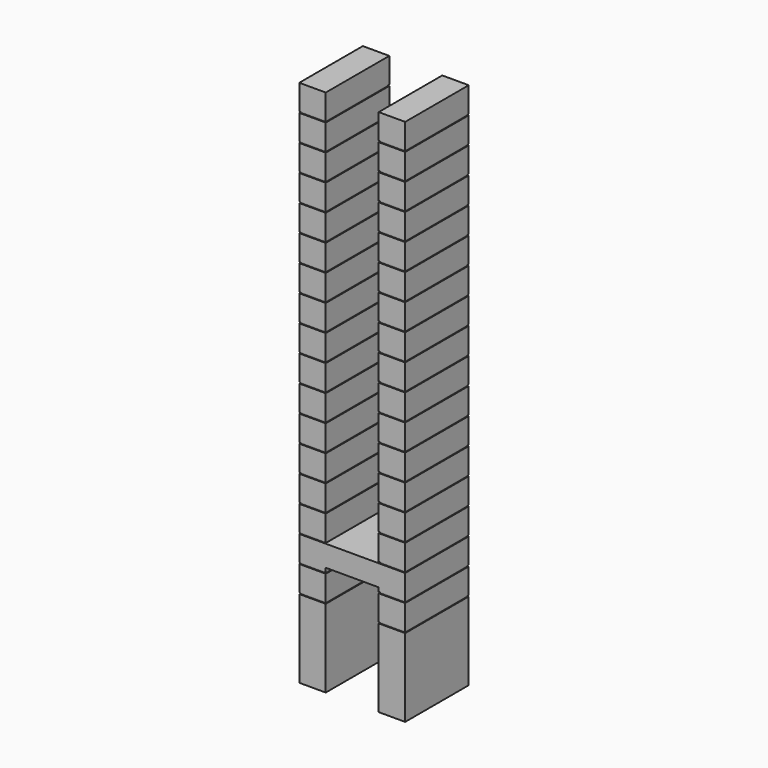
from build123d import *

# Parameters (mm, degrees)
CUBE182_W     = 9.5
CUBE182_H     = 29.5
CUBE182_DEPTH = 1
CUBE183_W     = 9.5
CUBE183_H     = 29.5
CUBE183_DEPTH = 1
CUBE184_W     = 9.5
CUBE184_H     = 29.5
CUBE184_DEPTH = 1
CUBE185_W     = 9.5
CUBE185_H     = 29.5
CUBE185_DEPTH = 1
CUBE186_W     = 9.5
CUBE186_H     = 29.5
CUBE186_DEPTH = 1
CUBE187_W     = 9.5
CUBE187_H     = 29.5
CUBE187_DEPTH = 1
CUBE188_W     = 9.5
CUBE188_H     = 29.5
CUBE188_DEPTH = 1
CUBE189_W     = 9.5
CUBE189_H     = 29.5
CUBE189_DEPTH = 1
CUBE190_W     = 9.5
CUBE190_H     = 29.5
CUBE190_DEPTH = 1
CUBE191_W     = 9.5
CUBE191_H     = 29.5
CUBE191_DEPTH = 1
CUBE192_W     = 9.5
CUBE192_H     = 29.5
CUBE192_DEPTH = 1
CUBE193_W     = 9.5
CUBE193_H     = 29.5
CUBE193_DEPTH = 1
CUBE194_W     = 9.5
CUBE194_H     = 29.5
CUBE194_DEPTH = 1
CUBE195_W     = 9.5
CUBE195_H     = 29.5
CUBE195_DEPTH = 1
CUBE196_W     = 9.5
CUBE196_H     = 29.5
CUBE196_DEPTH = 1
CUBE197_W     = 9.5
CUBE197_H     = 29.5
CUBE197_DEPTH = 1
CUBE198_W     = 9.5
CUBE198_H     = 29.5
CUBE198_DEPTH = 1
CUBE199_W     = 9.5
CUBE199_H     = 29.5
CUBE199_DEPTH = 1
CUBE200_W     = 9.5
CUBE200_H     = 29.5
CUBE200_DEPTH = 1
CUBE201_W     = 9.5
CUBE201_H     = 29.5
CUBE201_DEPTH = 1
CUBE202_W     = 9.5
CUBE202_H     = 29.5
CUBE202_DEPTH = 1
CUBE203_W     = 9.5
CUBE203_H     = 29.5
CUBE203_DEPTH = 1
CUBE204_W     = 9.5
CUBE204_H     = 29.5
CUBE204_DEPTH = 1
CUBE205_W     = 9.5
CUBE205_H     = 29.5
CUBE205_DEPTH = 1
CUBE206_W     = 9.5
CUBE206_H     = 29.5
CUBE206_DEPTH = 1
CUBE207_W     = 9.5
CUBE207_H     = 29.5
CUBE207_DEPTH = 1
CUBE208_W     = 9.5
CUBE208_H     = 29.5
CUBE208_DEPTH = 1
CUBE209_W     = 9.5
CUBE209_H     = 29.5
CUBE209_DEPTH = 1
CUBE210_W     = 9.5
CUBE210_H     = 29.5
CUBE210_DEPTH = 1
CUBE211_W     = 9.5
CUBE211_H     = 29.5
CUBE211_DEPTH = 1
CUBE212_W     = 9.5
CUBE212_H     = 29.5
CUBE212_DEPTH = 1
CUBE213_W     = 9.5
CUBE213_H     = 29.5
CUBE213_DEPTH = 1
CUBE214_W     = 9.5
CUBE214_H     = 29.5
CUBE214_DEPTH = 1
CUBE181_W     = 9.5
CUBE181_H     = 29.5
CUBE181_DEPTH = 1
CUBE215_W     = 40
CUBE215_H     = 30
CUBE215_DEPTH = 8
CUBE148_W     = 10
CUBE148_H     = 30
CUBE148_DEPTH = 9.5
CUBE147_W     = 10
CUBE147_H     = 30
CUBE147_DEPTH = 9.5
CUBE150_W     = 10
CUBE150_H     = 30
CUBE150_DEPTH = 9.5
CUBE149_W     = 10
CUBE149_H     = 30
CUBE149_DEPTH = 9.5
CUBE152_W     = 10
CUBE152_H     = 30
CUBE152_DEPTH = 9.5
CUBE151_W     = 10
CUBE151_H     = 30
CUBE151_DEPTH = 9.5
CUBE154_W     = 10
CUBE154_H     = 30
CUBE154_DEPTH = 9.5
CUBE153_W     = 10
CUBE153_H     = 30
CUBE153_DEPTH = 9.5
CUBE156_W     = 10
CUBE156_H     = 30
CUBE156_DEPTH = 9.5
CUBE155_W     = 10
CUBE155_H     = 30
CUBE155_DEPTH = 9.5
CUBE158_W     = 10
CUBE158_H     = 30
CUBE158_DEPTH = 9.5
CUBE157_W     = 10
CUBE157_H     = 30
CUBE157_DEPTH = 9.5
CUBE160_W     = 10
CUBE160_H     = 30
CUBE160_DEPTH = 9.5
CUBE159_W     = 10
CUBE159_H     = 30
CUBE159_DEPTH = 9.5
CUBE162_W     = 10
CUBE162_H     = 30
CUBE162_DEPTH = 9.5
CUBE161_W     = 10
CUBE161_H     = 30
CUBE161_DEPTH = 9.5
CUBE164_W     = 10
CUBE164_H     = 30
CUBE164_DEPTH = 9.5
CUBE163_W     = 10
CUBE163_H     = 30
CUBE163_DEPTH = 9.5
CUBE166_W     = 10
CUBE166_H     = 30
CUBE166_DEPTH = 9.5
CUBE165_W     = 10
CUBE165_H     = 30
CUBE165_DEPTH = 9.5
CUBE168_W     = 10
CUBE168_H     = 30
CUBE168_DEPTH = 9.5
CUBE167_W     = 10
CUBE167_H     = 30
CUBE167_DEPTH = 9.5
CUBE170_W     = 10
CUBE170_H     = 30
CUBE170_DEPTH = 9.5
CUBE169_W     = 10
CUBE169_H     = 30
CUBE169_DEPTH = 9.5
CUBE172_W     = 10
CUBE172_H     = 30
CUBE172_DEPTH = 9.5
CUBE171_W     = 10
CUBE171_H     = 30
CUBE171_DEPTH = 9.5
CUBE174_W     = 10
CUBE174_H     = 30
CUBE174_DEPTH = 9.5
CUBE173_W     = 10
CUBE173_H     = 30
CUBE173_DEPTH = 9.5
CUBE176_W     = 10
CUBE176_H     = 30
CUBE176_DEPTH = 9.5
CUBE175_W     = 10
CUBE175_H     = 30
CUBE175_DEPTH = 9.5
CUBE178_W     = 10
CUBE178_H     = 30
CUBE178_DEPTH = 9.5
CUBE177_W     = 10
CUBE177_H     = 30
CUBE177_DEPTH = 9.5
CUBE180_W     = 10
CUBE180_H     = 30
CUBE180_DEPTH = 9.5
CUBE179_W     = 10
CUBE179_H     = 30
CUBE179_DEPTH = 9.5
CUBE146_W     = 10
CUBE146_H     = 30
CUBE146_DEPTH = 9.5
CUBE145_W     = 10
CUBE145_H     = 30
CUBE145_DEPTH = 9.5
CUBE144_W     = 10
CUBE144_H     = 30
CUBE144_DEPTH = 20
CUBE143_W     = 10
CUBE143_H     = 30
CUBE143_DEPTH = 20


with BuildPart() as cube182:
    # cube182 → cube182 (new body)
    with BuildSketch(Plane(origin=(30.25, 0.25, 9.25), x_dir=(1, 0, 0), z_dir=(0, 0, 1))):
        with Locations((4.75, 14.75)):
            Rectangle(CUBE182_W, CUBE182_H)
    extrude(amount=CUBE182_DEPTH)


with BuildPart() as cube183:
    # cube183 → cube183 (new body)
    with BuildSketch(Plane(origin=(0.25, 0.25, 19.25), x_dir=(1, 0, 0), z_dir=(0, 0, 1))):
        with Locations((4.75, 14.75)):
            Rectangle(CUBE183_W, CUBE183_H)
    extrude(amount=CUBE183_DEPTH)


with BuildPart() as cube184:
    # cube184 → cube184 (new body)
    with BuildSketch(Plane(origin=(30.25, 0.25, 19.25), x_dir=(1, 0, 0), z_dir=(0, 0, 1))):
        with Locations((4.75, 14.75)):
            Rectangle(CUBE184_W, CUBE184_H)
    extrude(amount=CUBE184_DEPTH)


with BuildPart() as cube185:
    # cube185 → cube185 (new body)
    with BuildSketch(Plane(origin=(0.25, 0.25, 29.25), x_dir=(1, 0, 0), z_dir=(0, 0, 1))):
        with Locations((4.75, 14.75)):
            Rectangle(CUBE185_W, CUBE185_H)
    extrude(amount=CUBE185_DEPTH)


with BuildPart() as cube186:
    # cube186 → cube186 (new body)
    with BuildSketch(Plane(origin=(30.25, 0.25, 29.25), x_dir=(1, 0, 0), z_dir=(0, 0, 1))):
        with Locations((4.75, 14.75)):
            Rectangle(CUBE186_W, CUBE186_H)
    extrude(amount=CUBE186_DEPTH)


with BuildPart() as cube187:
    # cube187 → cube187 (new body)
    with BuildSketch(Plane(origin=(0.25, 0.25, 39.25), x_dir=(1, 0, 0), z_dir=(0, 0, 1))):
        with Locations((4.75, 14.75)):
            Rectangle(CUBE187_W, CUBE187_H)
    extrude(amount=CUBE187_DEPTH)


with BuildPart() as cube188:
    # cube188 → cube188 (new body)
    with BuildSketch(Plane(origin=(30.25, 0.25, 39.25), x_dir=(1, 0, 0), z_dir=(0, 0, 1))):
        with Locations((4.75, 14.75)):
            Rectangle(CUBE188_W, CUBE188_H)
    extrude(amount=CUBE188_DEPTH)


with BuildPart() as cube189:
    # cube189 → cube189 (new body)
    with BuildSketch(Plane(origin=(0.25, 0.25, 49.25), x_dir=(1, 0, 0), z_dir=(0, 0, 1))):
        with Locations((4.75, 14.75)):
            Rectangle(CUBE189_W, CUBE189_H)
    extrude(amount=CUBE189_DEPTH)


with BuildPart() as cube190:
    # cube190 → cube190 (new body)
    with BuildSketch(Plane(origin=(30.25, 0.25, 49.25), x_dir=(1, 0, 0), z_dir=(0, 0, 1))):
        with Locations((4.75, 14.75)):
            Rectangle(CUBE190_W, CUBE190_H)
    extrude(amount=CUBE190_DEPTH)


with BuildPart() as cube191:
    # cube191 → cube191 (new body)
    with BuildSketch(Plane(origin=(0.25, 0.25, 59.25), x_dir=(1, 0, 0), z_dir=(0, 0, 1))):
        with Locations((4.75, 14.75)):
            Rectangle(CUBE191_W, CUBE191_H)
    extrude(amount=CUBE191_DEPTH)


with BuildPart() as cube192:
    # cube192 → cube192 (new body)
    with BuildSketch(Plane(origin=(30.25, 0.25, 59.25), x_dir=(1, 0, 0), z_dir=(0, 0, 1))):
        with Locations((4.75, 14.75)):
            Rectangle(CUBE192_W, CUBE192_H)
    extrude(amount=CUBE192_DEPTH)


with BuildPart() as cube193:
    # cube193 → cube193 (new body)
    with BuildSketch(Plane(origin=(0.25, 0.25, 69.25), x_dir=(1, 0, 0), z_dir=(0, 0, 1))):
        with Locations((4.75, 14.75)):
            Rectangle(CUBE193_W, CUBE193_H)
    extrude(amount=CUBE193_DEPTH)


with BuildPart() as cube194:
    # cube194 → cube194 (new body)
    with BuildSketch(Plane(origin=(30.25, 0.25, 69.25), x_dir=(1, 0, 0), z_dir=(0, 0, 1))):
        with Locations((4.75, 14.75)):
            Rectangle(CUBE194_W, CUBE194_H)
    extrude(amount=CUBE194_DEPTH)


with BuildPart() as cube195:
    # cube195 → cube195 (new body)
    with BuildSketch(Plane(origin=(0.25, 0.25, 79.25), x_dir=(1, 0, 0), z_dir=(0, 0, 1))):
        with Locations((4.75, 14.75)):
            Rectangle(CUBE195_W, CUBE195_H)
    extrude(amount=CUBE195_DEPTH)


with BuildPart() as cube196:
    # cube196 → cube196 (new body)
    with BuildSketch(Plane(origin=(30.25, 0.25, 79.25), x_dir=(1, 0, 0), z_dir=(0, 0, 1))):
        with Locations((4.75, 14.75)):
            Rectangle(CUBE196_W, CUBE196_H)
    extrude(amount=CUBE196_DEPTH)


with BuildPart() as cube197:
    # cube197 → cube197 (new body)
    with BuildSketch(Plane(origin=(0.25, 0.25, 89.25), x_dir=(1, 0, 0), z_dir=(0, 0, 1))):
        with Locations((4.75, 14.75)):
            Rectangle(CUBE197_W, CUBE197_H)
    extrude(amount=CUBE197_DEPTH)


with BuildPart() as cube198:
    # cube198 → cube198 (new body)
    with BuildSketch(Plane(origin=(30.25, 0.25, 89.25), x_dir=(1, 0, 0), z_dir=(0, 0, 1))):
        with Locations((4.75, 14.75)):
            Rectangle(CUBE198_W, CUBE198_H)
    extrude(amount=CUBE198_DEPTH)


with BuildPart() as cube199:
    # cube199 → cube199 (new body)
    with BuildSketch(Plane(origin=(0.25, 0.25, 99.25), x_dir=(1, 0, 0), z_dir=(0, 0, 1))):
        with Locations((4.75, 14.75)):
            Rectangle(CUBE199_W, CUBE199_H)
    extrude(amount=CUBE199_DEPTH)


with BuildPart() as cube200:
    # cube200 → cube200 (new body)
    with BuildSketch(Plane(origin=(30.25, 0.25, 99.25), x_dir=(1, 0, 0), z_dir=(0, 0, 1))):
        with Locations((4.75, 14.75)):
            Rectangle(CUBE200_W, CUBE200_H)
    extrude(amount=CUBE200_DEPTH)


with BuildPart() as cube201:
    # cube201 → cube201 (new body)
    with BuildSketch(Plane(origin=(0.25, 0.25, 109.25), x_dir=(1, 0, 0), z_dir=(0, 0, 1))):
        with Locations((4.75, 14.75)):
            Rectangle(CUBE201_W, CUBE201_H)
    extrude(amount=CUBE201_DEPTH)


with BuildPart() as cube202:
    # cube202 → cube202 (new body)
    with BuildSketch(Plane(origin=(30.25, 0.25, 109.25), x_dir=(1, 0, 0), z_dir=(0, 0, 1))):
        with Locations((4.75, 14.75)):
            Rectangle(CUBE202_W, CUBE202_H)
    extrude(amount=CUBE202_DEPTH)


with BuildPart() as cube203:
    # cube203 → cube203 (new body)
    with BuildSketch(Plane(origin=(0.25, 0.25, 119.25), x_dir=(1, 0, 0), z_dir=(0, 0, 1))):
        with Locations((4.75, 14.75)):
            Rectangle(CUBE203_W, CUBE203_H)
    extrude(amount=CUBE203_DEPTH)


with BuildPart() as cube204:
    # cube204 → cube204 (new body)
    with BuildSketch(Plane(origin=(30.25, 0.25, 119.25), x_dir=(1, 0, 0), z_dir=(0, 0, 1))):
        with Locations((4.75, 14.75)):
            Rectangle(CUBE204_W, CUBE204_H)
    extrude(amount=CUBE204_DEPTH)


with BuildPart() as cube205:
    # cube205 → cube205 (new body)
    with BuildSketch(Plane(origin=(0.25, 0.25, 129.25), x_dir=(1, 0, 0), z_dir=(0, 0, 1))):
        with Locations((4.75, 14.75)):
            Rectangle(CUBE205_W, CUBE205_H)
    extrude(amount=CUBE205_DEPTH)


with BuildPart() as cube206:
    # cube206 → cube206 (new body)
    with BuildSketch(Plane(origin=(30.25, 0.25, 129.25), x_dir=(1, 0, 0), z_dir=(0, 0, 1))):
        with Locations((4.75, 14.75)):
            Rectangle(CUBE206_W, CUBE206_H)
    extrude(amount=CUBE206_DEPTH)


with BuildPart() as cube207:
    # cube207 → cube207 (new body)
    with BuildSketch(Plane(origin=(0.25, 0.25, 139.25), x_dir=(1, 0, 0), z_dir=(0, 0, 1))):
        with Locations((4.75, 14.75)):
            Rectangle(CUBE207_W, CUBE207_H)
    extrude(amount=CUBE207_DEPTH)


with BuildPart() as cube208:
    # cube208 → cube208 (new body)
    with BuildSketch(Plane(origin=(30.25, 0.25, 139.25), x_dir=(1, 0, 0), z_dir=(0, 0, 1))):
        with Locations((4.75, 14.75)):
            Rectangle(CUBE208_W, CUBE208_H)
    extrude(amount=CUBE208_DEPTH)


with BuildPart() as cube209:
    # cube209 → cube209 (new body)
    with BuildSketch(Plane(origin=(0.25, 0.25, 149.25), x_dir=(1, 0, 0), z_dir=(0, 0, 1))):
        with Locations((4.75, 14.75)):
            Rectangle(CUBE209_W, CUBE209_H)
    extrude(amount=CUBE209_DEPTH)


with BuildPart() as cube210:
    # cube210 → cube210 (new body)
    with BuildSketch(Plane(origin=(30.25, 0.25, 149.25), x_dir=(1, 0, 0), z_dir=(0, 0, 1))):
        with Locations((4.75, 14.75)):
            Rectangle(CUBE210_W, CUBE210_H)
    extrude(amount=CUBE210_DEPTH)


with BuildPart() as cube211:
    # cube211 → cube211 (new body)
    with BuildSketch(Plane(origin=(0.25, 0.25, 159.25), x_dir=(1, 0, 0), z_dir=(0, 0, 1))):
        with Locations((4.75, 14.75)):
            Rectangle(CUBE211_W, CUBE211_H)
    extrude(amount=CUBE211_DEPTH)


with BuildPart() as cube212:
    # cube212 → cube212 (new body)
    with BuildSketch(Plane(origin=(30.25, 0.25, 159.25), x_dir=(1, 0, 0), z_dir=(0, 0, 1))):
        with Locations((4.75, 14.75)):
            Rectangle(CUBE212_W, CUBE212_H)
    extrude(amount=CUBE212_DEPTH)


with BuildPart() as cube213:
    # cube213 → cube213 (new body)
    with BuildSketch(Plane(origin=(0.25, 0.25, 169.25), x_dir=(1, 0, 0), z_dir=(0, 0, 1))):
        with Locations((4.75, 14.75)):
            Rectangle(CUBE213_W, CUBE213_H)
    extrude(amount=CUBE213_DEPTH)


with BuildPart() as cube214:
    # cube214 → cube214 (new body)
    with BuildSketch(Plane(origin=(30.25, 0.25, 169.25), x_dir=(1, 0, 0), z_dir=(0, 0, 1))):
        with Locations((4.75, 14.75)):
            Rectangle(CUBE214_W, CUBE214_H)
    extrude(amount=CUBE214_DEPTH)


with BuildPart() as group005:
    # cube181 → cube181 (new body)
    with BuildSketch(Plane(origin=(0.25, 0.25, 9.25), x_dir=(1, 0, 0), z_dir=(0, 0, 1))):
        with Locations((4.75, 14.75)):
            Rectangle(CUBE181_W, CUBE181_H)
    extrude(amount=CUBE181_DEPTH)

    # Group005: union cube182, cube183, cube184, cube185, cube186, cube187, cube188, cube189, cube190, cube191, cube192, cube193, cube194, cube195, cube196, cube197, cube198, cube199, cube200, cube201, cube202, cube203, cube204, cube205, cube206, cube207, cube208, cube209, cube210, cube211, cube212, cube213, cube214
    add(cube182.part)
    add(cube183.part)
    add(cube184.part)
    add(cube185.part)
    add(cube186.part)
    add(cube187.part)
    add(cube188.part)
    add(cube189.part)
    add(cube190.part)
    add(cube191.part)
    add(cube192.part)
    add(cube193.part)
    add(cube194.part)
    add(cube195.part)
    add(cube196.part)
    add(cube197.part)
    add(cube198.part)
    add(cube199.part)
    add(cube200.part)
    add(cube201.part)
    add(cube202.part)
    add(cube203.part)
    add(cube204.part)
    add(cube205.part)
    add(cube206.part)
    add(cube207.part)
    add(cube208.part)
    add(cube209.part)
    add(cube210.part)
    add(cube211.part)
    add(cube212.part)
    add(cube213.part)
    add(cube214.part)


with BuildPart() as cube215:
    # cube215 → cube215 (new body)
    with BuildSketch(Plane.XY.offset(21.5)):
        with Locations((20, 15)):
            Rectangle(CUBE215_W, CUBE215_H)
    extrude(amount=CUBE215_DEPTH)


with BuildPart() as cube148:
    # cube148 → cube148 (new body)
    with BuildSketch(Plane(origin=(30, 0, 0), x_dir=(1, 0, 0), z_dir=(0, 0, 1))):
        with Locations((5, 15)):
            Rectangle(CUBE148_W, CUBE148_H)
    extrude(amount=CUBE148_DEPTH)


with BuildPart() as matrix_union038:
    # cube147 → cube147 (new body)
    with BuildSketch(Plane.XY):
        with Locations((5, 15)):
            Rectangle(CUBE147_W, CUBE147_H)
    extrude(amount=CUBE147_DEPTH)

    # Matrix_Union038: union cube148
    add(cube148.part)


with BuildPart() as matrix_union038_1:
    # Matrix_Union038 placement: moved
    add(matrix_union038.part.moved(Location((0, 0, 10))))


with BuildPart() as cube150:
    # cube150 → cube150 (new body)
    with BuildSketch(Plane(origin=(30, 0, 0), x_dir=(1, 0, 0), z_dir=(0, 0, 1))):
        with Locations((5, 15)):
            Rectangle(CUBE150_W, CUBE150_H)
    extrude(amount=CUBE150_DEPTH)


with BuildPart() as matrix_union039:
    # cube149 → cube149 (new body)
    with BuildSketch(Plane.XY):
        with Locations((5, 15)):
            Rectangle(CUBE149_W, CUBE149_H)
    extrude(amount=CUBE149_DEPTH)

    # Matrix_Union039: union cube150
    add(cube150.part)


with BuildPart() as matrix_union039_1:
    # Matrix_Union039 placement: moved
    add(matrix_union039.part.moved(Location((0, 0, 20))))


with BuildPart() as cube152:
    # cube152 → cube152 (new body)
    with BuildSketch(Plane(origin=(30, 0, 0), x_dir=(1, 0, 0), z_dir=(0, 0, 1))):
        with Locations((5, 15)):
            Rectangle(CUBE152_W, CUBE152_H)
    extrude(amount=CUBE152_DEPTH)


with BuildPart() as matrix_union040:
    # cube151 → cube151 (new body)
    with BuildSketch(Plane.XY):
        with Locations((5, 15)):
            Rectangle(CUBE151_W, CUBE151_H)
    extrude(amount=CUBE151_DEPTH)

    # Matrix_Union040: union cube152
    add(cube152.part)


with BuildPart() as matrix_union040_1:
    # Matrix_Union040 placement: moved
    add(matrix_union040.part.moved(Location((0, 0, 30))))


with BuildPart() as cube154:
    # cube154 → cube154 (new body)
    with BuildSketch(Plane(origin=(30, 0, 0), x_dir=(1, 0, 0), z_dir=(0, 0, 1))):
        with Locations((5, 15)):
            Rectangle(CUBE154_W, CUBE154_H)
    extrude(amount=CUBE154_DEPTH)


with BuildPart() as matrix_union041:
    # cube153 → cube153 (new body)
    with BuildSketch(Plane.XY):
        with Locations((5, 15)):
            Rectangle(CUBE153_W, CUBE153_H)
    extrude(amount=CUBE153_DEPTH)

    # Matrix_Union041: union cube154
    add(cube154.part)


with BuildPart() as matrix_union041_1:
    # Matrix_Union041 placement: moved
    add(matrix_union041.part.moved(Location((0, 0, 40))))


with BuildPart() as cube156:
    # cube156 → cube156 (new body)
    with BuildSketch(Plane(origin=(30, 0, 0), x_dir=(1, 0, 0), z_dir=(0, 0, 1))):
        with Locations((5, 15)):
            Rectangle(CUBE156_W, CUBE156_H)
    extrude(amount=CUBE156_DEPTH)


with BuildPart() as matrix_union042:
    # cube155 → cube155 (new body)
    with BuildSketch(Plane.XY):
        with Locations((5, 15)):
            Rectangle(CUBE155_W, CUBE155_H)
    extrude(amount=CUBE155_DEPTH)

    # Matrix_Union042: union cube156
    add(cube156.part)


with BuildPart() as matrix_union042_1:
    # Matrix_Union042 placement: moved
    add(matrix_union042.part.moved(Location((0, 0, 50))))


with BuildPart() as cube158:
    # cube158 → cube158 (new body)
    with BuildSketch(Plane(origin=(30, 0, 0), x_dir=(1, 0, 0), z_dir=(0, 0, 1))):
        with Locations((5, 15)):
            Rectangle(CUBE158_W, CUBE158_H)
    extrude(amount=CUBE158_DEPTH)


with BuildPart() as matrix_union043:
    # cube157 → cube157 (new body)
    with BuildSketch(Plane.XY):
        with Locations((5, 15)):
            Rectangle(CUBE157_W, CUBE157_H)
    extrude(amount=CUBE157_DEPTH)

    # Matrix_Union043: union cube158
    add(cube158.part)


with BuildPart() as matrix_union043_1:
    # Matrix_Union043 placement: moved
    add(matrix_union043.part.moved(Location((0, 0, 60))))


with BuildPart() as cube160:
    # cube160 → cube160 (new body)
    with BuildSketch(Plane(origin=(30, 0, 0), x_dir=(1, 0, 0), z_dir=(0, 0, 1))):
        with Locations((5, 15)):
            Rectangle(CUBE160_W, CUBE160_H)
    extrude(amount=CUBE160_DEPTH)


with BuildPart() as matrix_union044:
    # cube159 → cube159 (new body)
    with BuildSketch(Plane.XY):
        with Locations((5, 15)):
            Rectangle(CUBE159_W, CUBE159_H)
    extrude(amount=CUBE159_DEPTH)

    # Matrix_Union044: union cube160
    add(cube160.part)


with BuildPart() as matrix_union044_1:
    # Matrix_Union044 placement: moved
    add(matrix_union044.part.moved(Location((0, 0, 70))))


with BuildPart() as cube162:
    # cube162 → cube162 (new body)
    with BuildSketch(Plane(origin=(30, 0, 0), x_dir=(1, 0, 0), z_dir=(0, 0, 1))):
        with Locations((5, 15)):
            Rectangle(CUBE162_W, CUBE162_H)
    extrude(amount=CUBE162_DEPTH)


with BuildPart() as matrix_union045:
    # cube161 → cube161 (new body)
    with BuildSketch(Plane.XY):
        with Locations((5, 15)):
            Rectangle(CUBE161_W, CUBE161_H)
    extrude(amount=CUBE161_DEPTH)

    # Matrix_Union045: union cube162
    add(cube162.part)


with BuildPart() as matrix_union045_1:
    # Matrix_Union045 placement: moved
    add(matrix_union045.part.moved(Location((0, 0, 80))))


with BuildPart() as cube164:
    # cube164 → cube164 (new body)
    with BuildSketch(Plane(origin=(30, 0, 0), x_dir=(1, 0, 0), z_dir=(0, 0, 1))):
        with Locations((5, 15)):
            Rectangle(CUBE164_W, CUBE164_H)
    extrude(amount=CUBE164_DEPTH)


with BuildPart() as matrix_union046:
    # cube163 → cube163 (new body)
    with BuildSketch(Plane.XY):
        with Locations((5, 15)):
            Rectangle(CUBE163_W, CUBE163_H)
    extrude(amount=CUBE163_DEPTH)

    # Matrix_Union046: union cube164
    add(cube164.part)


with BuildPart() as matrix_union046_1:
    # Matrix_Union046 placement: moved
    add(matrix_union046.part.moved(Location((0, 0, 90))))


with BuildPart() as cube166:
    # cube166 → cube166 (new body)
    with BuildSketch(Plane(origin=(30, 0, 0), x_dir=(1, 0, 0), z_dir=(0, 0, 1))):
        with Locations((5, 15)):
            Rectangle(CUBE166_W, CUBE166_H)
    extrude(amount=CUBE166_DEPTH)


with BuildPart() as matrix_union047:
    # cube165 → cube165 (new body)
    with BuildSketch(Plane.XY):
        with Locations((5, 15)):
            Rectangle(CUBE165_W, CUBE165_H)
    extrude(amount=CUBE165_DEPTH)

    # Matrix_Union047: union cube166
    add(cube166.part)


with BuildPart() as matrix_union047_1:
    # Matrix_Union047 placement: moved
    add(matrix_union047.part.moved(Location((0, 0, 100))))


with BuildPart() as cube168:
    # cube168 → cube168 (new body)
    with BuildSketch(Plane(origin=(30, 0, 0), x_dir=(1, 0, 0), z_dir=(0, 0, 1))):
        with Locations((5, 15)):
            Rectangle(CUBE168_W, CUBE168_H)
    extrude(amount=CUBE168_DEPTH)


with BuildPart() as matrix_union048:
    # cube167 → cube167 (new body)
    with BuildSketch(Plane.XY):
        with Locations((5, 15)):
            Rectangle(CUBE167_W, CUBE167_H)
    extrude(amount=CUBE167_DEPTH)

    # Matrix_Union048: union cube168
    add(cube168.part)


with BuildPart() as matrix_union048_1:
    # Matrix_Union048 placement: moved
    add(matrix_union048.part.moved(Location((0, 0, 110))))


with BuildPart() as cube170:
    # cube170 → cube170 (new body)
    with BuildSketch(Plane(origin=(30, 0, 0), x_dir=(1, 0, 0), z_dir=(0, 0, 1))):
        with Locations((5, 15)):
            Rectangle(CUBE170_W, CUBE170_H)
    extrude(amount=CUBE170_DEPTH)


with BuildPart() as matrix_union049:
    # cube169 → cube169 (new body)
    with BuildSketch(Plane.XY):
        with Locations((5, 15)):
            Rectangle(CUBE169_W, CUBE169_H)
    extrude(amount=CUBE169_DEPTH)

    # Matrix_Union049: union cube170
    add(cube170.part)


with BuildPart() as matrix_union049_1:
    # Matrix_Union049 placement: moved
    add(matrix_union049.part.moved(Location((0, 0, 120))))


with BuildPart() as cube172:
    # cube172 → cube172 (new body)
    with BuildSketch(Plane(origin=(30, 0, 0), x_dir=(1, 0, 0), z_dir=(0, 0, 1))):
        with Locations((5, 15)):
            Rectangle(CUBE172_W, CUBE172_H)
    extrude(amount=CUBE172_DEPTH)


with BuildPart() as matrix_union050:
    # cube171 → cube171 (new body)
    with BuildSketch(Plane.XY):
        with Locations((5, 15)):
            Rectangle(CUBE171_W, CUBE171_H)
    extrude(amount=CUBE171_DEPTH)

    # Matrix_Union050: union cube172
    add(cube172.part)


with BuildPart() as matrix_union050_1:
    # Matrix_Union050 placement: moved
    add(matrix_union050.part.moved(Location((0, 0, 130))))


with BuildPart() as cube174:
    # cube174 → cube174 (new body)
    with BuildSketch(Plane(origin=(30, 0, 0), x_dir=(1, 0, 0), z_dir=(0, 0, 1))):
        with Locations((5, 15)):
            Rectangle(CUBE174_W, CUBE174_H)
    extrude(amount=CUBE174_DEPTH)


with BuildPart() as matrix_union051:
    # cube173 → cube173 (new body)
    with BuildSketch(Plane.XY):
        with Locations((5, 15)):
            Rectangle(CUBE173_W, CUBE173_H)
    extrude(amount=CUBE173_DEPTH)

    # Matrix_Union051: union cube174
    add(cube174.part)


with BuildPart() as matrix_union051_1:
    # Matrix_Union051 placement: moved
    add(matrix_union051.part.moved(Location((0, 0, 140))))


with BuildPart() as cube176:
    # cube176 → cube176 (new body)
    with BuildSketch(Plane(origin=(30, 0, 0), x_dir=(1, 0, 0), z_dir=(0, 0, 1))):
        with Locations((5, 15)):
            Rectangle(CUBE176_W, CUBE176_H)
    extrude(amount=CUBE176_DEPTH)


with BuildPart() as matrix_union052:
    # cube175 → cube175 (new body)
    with BuildSketch(Plane.XY):
        with Locations((5, 15)):
            Rectangle(CUBE175_W, CUBE175_H)
    extrude(amount=CUBE175_DEPTH)

    # Matrix_Union052: union cube176
    add(cube176.part)


with BuildPart() as matrix_union052_1:
    # Matrix_Union052 placement: moved
    add(matrix_union052.part.moved(Location((0, 0, 150))))


with BuildPart() as cube178:
    # cube178 → cube178 (new body)
    with BuildSketch(Plane(origin=(30, 0, 0), x_dir=(1, 0, 0), z_dir=(0, 0, 1))):
        with Locations((5, 15)):
            Rectangle(CUBE178_W, CUBE178_H)
    extrude(amount=CUBE178_DEPTH)


with BuildPart() as matrix_union053:
    # cube177 → cube177 (new body)
    with BuildSketch(Plane.XY):
        with Locations((5, 15)):
            Rectangle(CUBE177_W, CUBE177_H)
    extrude(amount=CUBE177_DEPTH)

    # Matrix_Union053: union cube178
    add(cube178.part)


with BuildPart() as matrix_union053_1:
    # Matrix_Union053 placement: moved
    add(matrix_union053.part.moved(Location((0, 0, 160))))


with BuildPart() as cube180:
    # cube180 → cube180 (new body)
    with BuildSketch(Plane(origin=(30, 0, 0), x_dir=(1, 0, 0), z_dir=(0, 0, 1))):
        with Locations((5, 15)):
            Rectangle(CUBE180_W, CUBE180_H)
    extrude(amount=CUBE180_DEPTH)


with BuildPart() as matrix_union054:
    # cube179 → cube179 (new body)
    with BuildSketch(Plane.XY):
        with Locations((5, 15)):
            Rectangle(CUBE179_W, CUBE179_H)
    extrude(amount=CUBE179_DEPTH)

    # Matrix_Union054: union cube180
    add(cube180.part)


with BuildPart() as matrix_union054_1:
    # Matrix_Union054 placement: moved
    add(matrix_union054.part.moved(Location((0, 0, 170))))


with BuildPart() as cube146:
    # cube146 → cube146 (new body)
    with BuildSketch(Plane(origin=(30, 0, 0), x_dir=(1, 0, 0), z_dir=(0, 0, 1))):
        with Locations((5, 15)):
            Rectangle(CUBE146_W, CUBE146_H)
    extrude(amount=CUBE146_DEPTH)


with BuildPart() as group006:
    # cube145 → cube145 (new body)
    with BuildSketch(Plane.XY):
        with Locations((5, 15)):
            Rectangle(CUBE145_W, CUBE145_H)
    extrude(amount=CUBE145_DEPTH)

    # Matrix_Union037: union cube146
    add(cube146.part)

    # Group: union Matrix_Union038, Matrix_Union039, Matrix_Union040, Matrix_Union041, Matrix_Union042, Matrix_Union043, Matrix_Union044, Matrix_Union045, Matrix_Union046, Matrix_Union047, Matrix_Union048, Matrix_Union049, Matrix_Union050, Matrix_Union051, Matrix_Union052, Matrix_Union053, Matrix_Union054
    add(matrix_union038_1.part)
    add(matrix_union039_1.part)
    add(matrix_union040_1.part)
    add(matrix_union041_1.part)
    add(matrix_union042_1.part)
    add(matrix_union043_1.part)
    add(matrix_union044_1.part)
    add(matrix_union045_1.part)
    add(matrix_union046_1.part)
    add(matrix_union047_1.part)
    add(matrix_union048_1.part)
    add(matrix_union049_1.part)
    add(matrix_union050_1.part)
    add(matrix_union051_1.part)
    add(matrix_union052_1.part)
    add(matrix_union053_1.part)
    add(matrix_union054_1.part)

    # Group006: union Group005, cube215
    add(group005.part)
    add(cube215.part)


with BuildPart() as group006_1:
    # Group006 placement: moved
    add(group006.part.moved(Location((0, 0, 20))))


with BuildPart() as cube144:
    # cube144 → cube144 (new body)
    with BuildSketch(Plane(origin=(30, 0, 0), x_dir=(1, 0, 0), z_dir=(0, 0, 1))):
        with Locations((5, 15)):
            Rectangle(CUBE144_W, CUBE144_H)
    extrude(amount=CUBE144_DEPTH)


with BuildPart() as tower:
    # cube143 → cube143 (new body)
    with BuildSketch(Plane.XY):
        with Locations((5, 15)):
            Rectangle(CUBE143_W, CUBE143_H)
    extrude(amount=CUBE143_DEPTH)

    # Matrix_Union036: union cube144
    add(cube144.part)

    # union: union Group006
    add(group006_1.part)


with BuildPart() as tower_1:
    # union placement: moved
    add(tower.part.moved(Location((0, 0, -19.6))))


solid = tower_1.part
